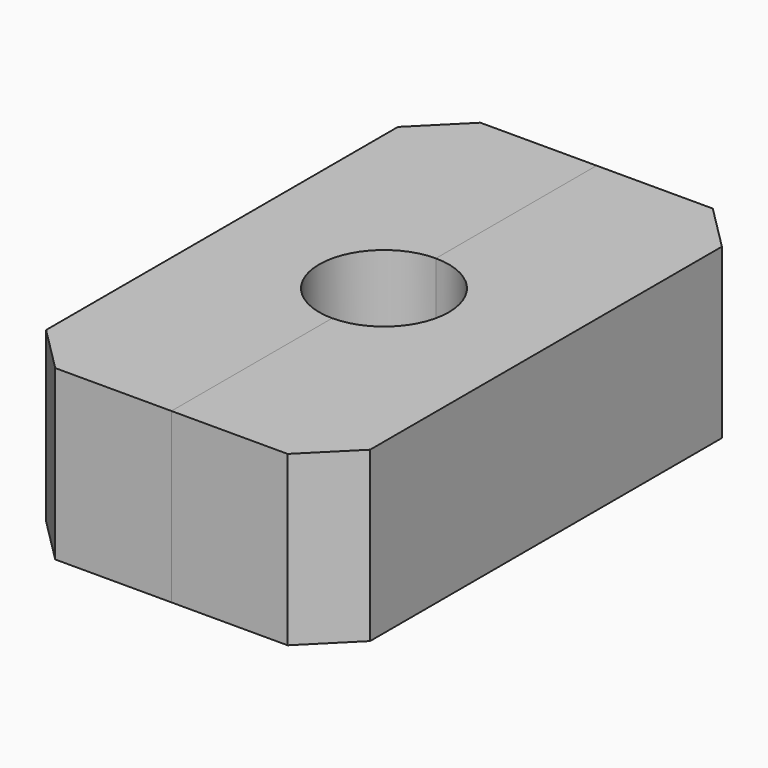
from build123d import *

# Parameters (mm, degrees)
PAD_DEPTH = 13


with BuildPart() as part:
    # Sketch → Pad (new body)
    with BuildSketch(Plane.XY):
        with BuildLine():
            ThreePointArc((0, -5), (5, 0), (0, 5))
            Line((0, 20.5), (0, 5))
            Line((8.964466, 20.5), (0, 20.5))
            Line((10.732233, 18.732233), (8.964466, 20.5))
            Line((10.732233, 18.732233), (12.5, 16.964466))
            Line((12.5, 16.964466), (12.5, -16.964466))
            Line((12.5, -16.964466), (10.732233, -18.732233))
            Line((10.732233, -18.732233), (8.964466, -20.5))
            Line((8.964466, -20.5), (0, -20.5))
            Line((0, -5), (0, -20.5))
        make_face()
    pad = extrude(amount=PAD_DEPTH)

    # Mirrored: Pad across Sketch V_Axis
    add(pad.mirror(Plane(origin=(0, 0, 0), x_dir=(0, 0, 1), z_dir=(1, 0, 0))))


solid = part.part
